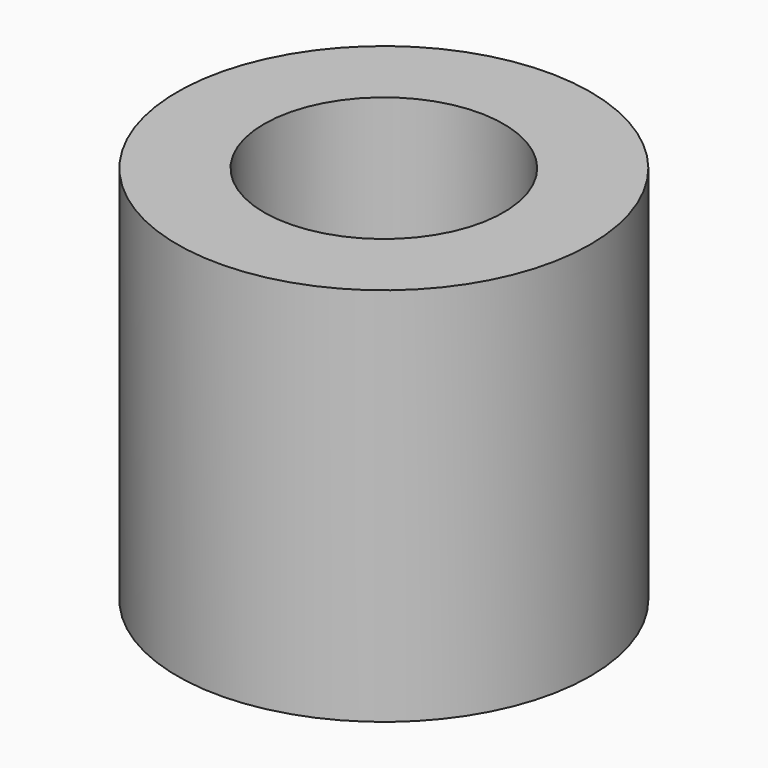
from build123d import *

# Parameters (mm, degrees)
F0_R     = 2.5
F1_DEPTH = 4.6
F2_D     = 2.9


with BuildPart() as f1:
    # F0 (on Top) → F1 (new body)
    with BuildSketch(Plane.XY):
        with Locations((36.0503385754, 42.7970297431)):
            Circle(F0_R)
    extrude(amount=F1_DEPTH)

    # F2 (through all)
    with Locations(Plane(origin=(0, 0, 0), x_dir=(1, 0, 0), z_dir=(0, 0, -1))):
        with Locations((36.0503385754, -42.7970297431)):
            Hole(F2_D / 2)


solid = f1.part
